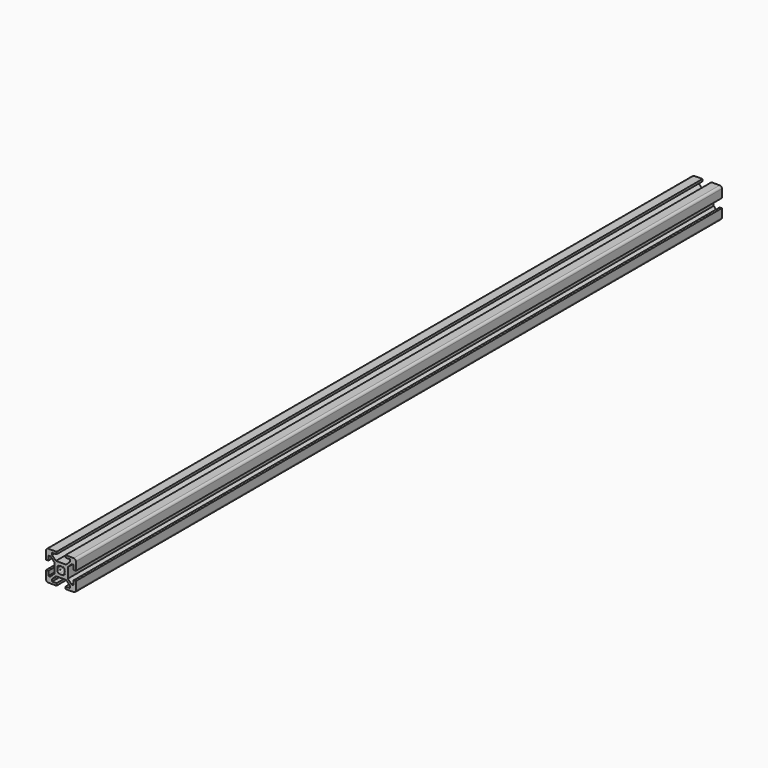
from build123d import *

# Parameters (mm, degrees)
F1_DEPTH = 540


with BuildPart() as f1:
    # F0 (on Front) → F1 (new body)
    with BuildSketch(Plane.XZ):
        with BuildLine():
            Line((3, -10), (8.5, -10))
            ThreePointArc((8.5, -10), (9.5606601718, -9.5606601718), (10, -8.5))
            Line((10, -8.5), (10, -3))
            Line((10, -3), (8.5, -3))
            Line((8.5, -3), (8.5, -6))
            Line((8.5, -6), (7.0606601718, -6))
            Line((7.0606601718, -6), (4.5, -3.4393398282))
            Line((4.5, -3.4393398282), (4.5, 3.4393398282))
            Line((4.5, 3.4393398282), (7.0606601718, 6))
            Line((7.0606601718, 6), (8.5, 6))
            Line((8.5, 6), (8.5, 3))
            Line((8.5, 3), (10, 3))
            Line((10, 3), (10, 8.5))
            ThreePointArc((10, 8.5), (9.5606601718, 9.5606601718), (8.5, 10))
            Line((8.5, 10), (3, 10))
            Line((3, 10), (3, 8.5))
            Line((3, 8.5), (6, 8.5))
            Line((6, 8.5), (6, 7.0606601718))
            Line((6, 7.0606601718), (3.4393398282, 4.5))
            Line((3.4393398282, 4.5), (-3.4393398282, 4.5))
            Line((-3.4393398282, 4.5), (-6, 7.0606601718))
            Line((-6, 7.0606601718), (-6, 8.5))
            Line((-6, 8.5), (-3, 8.5))
            Line((-3, 8.5), (-3, 10))
            Line((-3, 10), (-8.5, 10))
            ThreePointArc((-8.5, 10), (-9.5606601718, 9.5606601718), (-10, 8.5))
            Line((-10, 8.5), (-10, 3))
            Line((-10, 3), (-8.5, 3))
            Line((-8.5, 3), (-8.5, 6))
            Line((-8.5, 6), (-7.0606601718, 6))
            Line((-7.0606601718, 6), (-4.5, 3.4393398282))
            Line((-4.5, 3.4393398282), (-4.5, -3.4393398282))
            Line((-4.5, -3.4393398282), (-7.0606601718, -6))
            Line((-7.0606601718, -6), (-8.5, -6))
            Line((-8.5, -6), (-8.5, -3))
            Line((-8.5, -3), (-10, -3))
            Line((-10, -3), (-10, -8.5))
            ThreePointArc((-10, -8.5), (-9.5606601718, -9.5606601718), (-8.5, -10))
            Line((-8.5, -10), (-3, -10))
            Line((-3, -10), (-3, -8.5))
            Line((-3, -8.5), (-6, -8.5))
            Line((-6, -8.5), (-6, -7.0606601718))
            Line((-6, -7.0606601718), (-3.4393398282, -4.5))
            Line((-3.4393398282, -4.5), (3.4393398282, -4.5))
            Line((3.4393398282, -4.5), (6, -7.0606601718))
            Line((6, -7.0606601718), (6, -8.5))
            Line((6, -8.5), (3, -8.5))
            Line((3, -8.5), (3, -10))
        make_face()
        with BuildLine():
            ThreePointArc((-1.1560121095, 2.2166722813), (0, 2.5), (1.1560121095, 2.2166722813))
            Line((1.1560121095, 2.2166722813), (1.4393398282, 2.5))
            Line((1.4393398282, 2.5), (2.5, 1.4393398282))
            Line((2.5, 1.4393398282), (2.2166722813, 1.1560121095))
            ThreePointArc((2.2166722813, 1.1560121095), (2.5, 0), (2.2166722813, -1.1560121095))
            Line((2.2166722813, -1.1560121095), (2.5, -1.4393398282))
            Line((2.5, -1.4393398282), (1.4393398282, -2.5))
            Line((1.4393398282, -2.5), (1.1560121095, -2.2166722813))
            ThreePointArc((1.1560121095, -2.2166722813), (0, -2.5), (-1.1560121095, -2.2166722813))
            Line((-1.1560121095, -2.2166722813), (-1.4393398282, -2.5))
            Line((-1.4393398282, -2.5), (-2.5, -1.4393398282))
            Line((-2.5, -1.4393398282), (-2.2166722813, -1.1560121095))
            ThreePointArc((-2.2166722813, -1.1560121095), (-2.5, 0), (-2.2166722813, 1.1560121095))
            Line((-2.2166722813, 1.1560121095), (-2.5, 1.4393398282))
            Line((-2.5, 1.4393398282), (-1.4393398282, 2.5))
            Line((-1.4393398282, 2.5), (-1.1560121095, 2.2166722813))
        make_face(mode=Mode.SUBTRACT)
    extrude(amount=F1_DEPTH)


solid = f1.part
